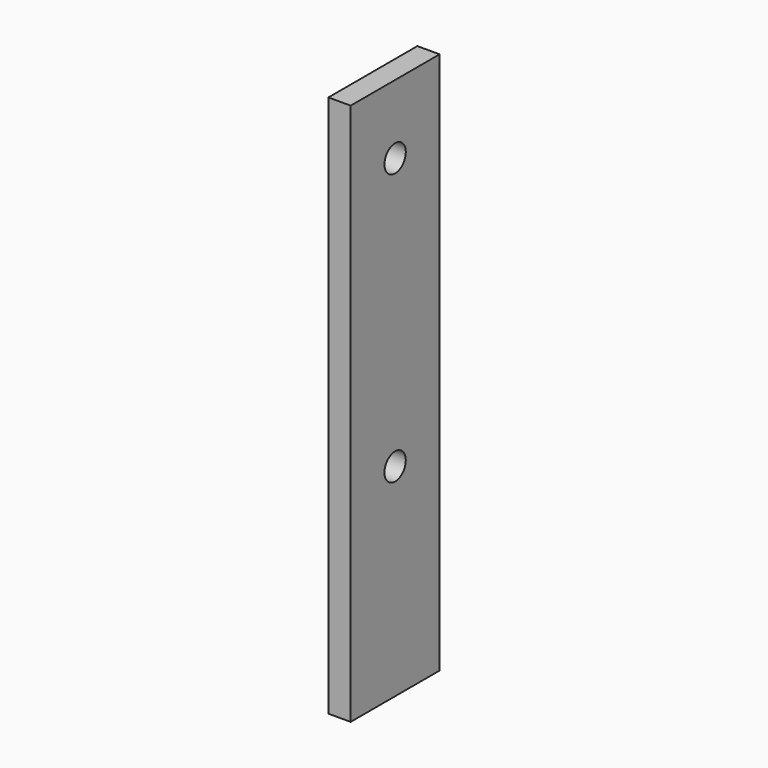
from build123d import *

# Parameters (mm, degrees)
F0_W     = 25
F0_H     = 122
F1_DEPTH = 5
F2_R     = 3
F3_DEPTH = 25


with BuildPart() as f1:
    # F0 (on Right) → F1 (new body)
    with BuildSketch(Plane.YZ):
        with Locations((12.5, 61)):
            Rectangle(F0_W, F0_H)
    extrude(amount=F1_DEPTH)

    # F2 (on face) → F3 (cut)
    with BuildSketch(Plane.YZ.offset(5)):
        with Locations((12.5, 106.5)):
            Circle(F2_R)
        with Locations((12.5, 45.5)):
            Circle(F2_R)
    extrude(amount=-F3_DEPTH, mode=Mode.SUBTRACT)


solid = f1.part
